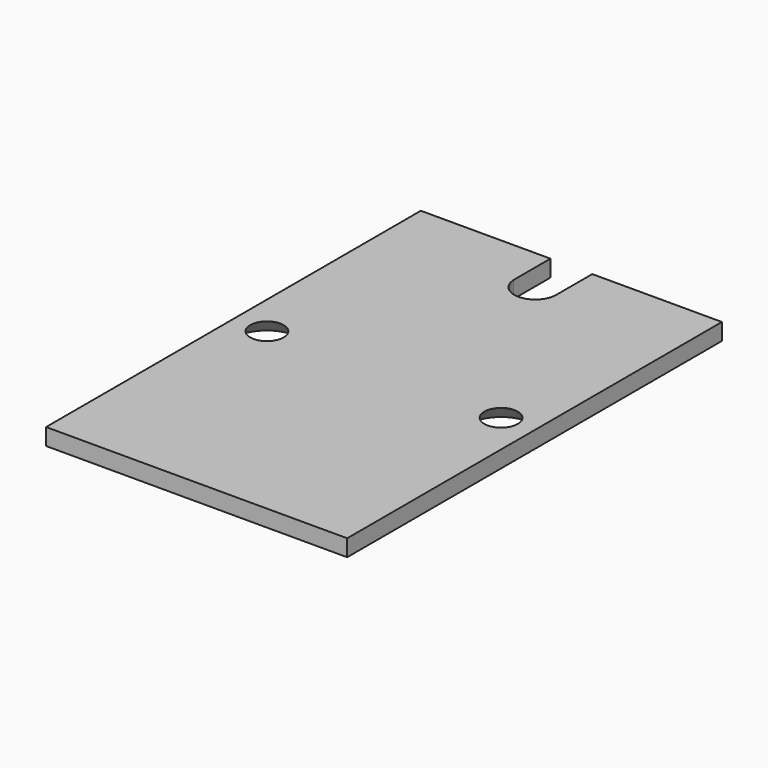
from build123d import *

# Parameters (mm, degrees)
SKETCH_W        = 36
SKETCH_H        = 56
PAD_DEPTH       = 2
SKETCH001_R     = 2
POCKET_DEPTH    = 3
CHAMFER_SIZE    = 1.99
POCKET001_DEPTH = 3


with BuildPart() as part:
    # Sketch → Pad (new body)
    with BuildSketch(Plane.XY):
        Rectangle(SKETCH_W, SKETCH_H)
    extrude(amount=PAD_DEPTH)

    # Sketch001 (on Face5 of Pad) → Pocket (cut)
    with BuildSketch(Plane(origin=(0, 0, 0), x_dir=(1, 0, 0), z_dir=(0, 0, -1))):
        with Locations((14, 0)):
            Circle(SKETCH001_R)
        with Locations((-14, 0)):
            Circle(SKETCH001_R)
    extrude(amount=-POCKET_DEPTH, mode=Mode.SUBTRACT)

    # Chamfer
    chamfer_edges = [part.edges().sort_by_distance(p)[0] for p in [
        (-16, 0, 0),
        (12, 0, 0),
    ]]
    chamfer(chamfer_edges, length=CHAMFER_SIZE)

    # Sketch002 (on Face1 of Chamfer) → Pocket001 (cut)
    with BuildSketch(Plane(origin=(0, 0, 0), x_dir=(1, 0, 0), z_dir=(0, 0, -1))):
        with BuildLine():
            ThreePointArc((2.49784, -22.5), (0, -20.103904), (-2.49784, -22.5))
            Line((-2.49784, -22.5), (-2.5, -28))
            Line((-2.5, -28), (2.5, -28))
            Line((2.49784, -22.5), (2.5, -28))
        make_face()
    extrude(amount=-POCKET001_DEPTH, mode=Mode.SUBTRACT)


solid = part.part
